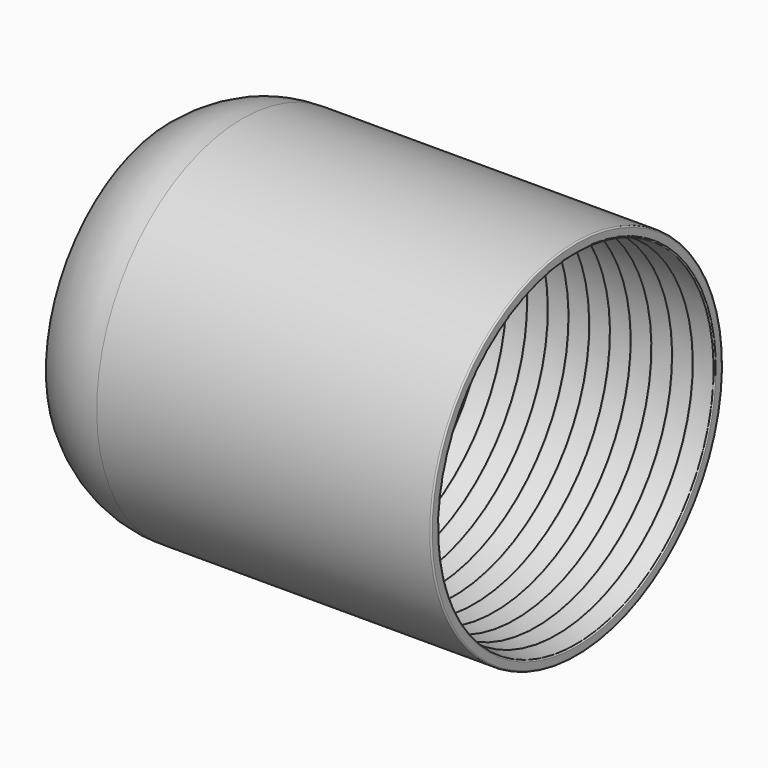
from build123d import *


with BuildPart() as f1:
    # F0 (on Front) → F1 (revolve)
    with BuildSketch(Plane.XZ):
        with BuildLine():
            ThreePointArc((0, 131), (-0.292893, 131.707107), (-1, 132))
            Line((-1, 132), (-242.180123, 132))
            Line((-242.180123, 132), (-242.180123, 123.010152))
            Line((-242.180123, 123.010152), (-179.286198, 123.000046))
            ThreePointArc((-179.286198, 123.000046), (-179.187331, 123.001008), (-179.088503, 123.003924))
            ThreePointArc((-179.088503, 123.003924), (-178.831014, 123.020735), (-178.574735, 123.050807))
            Line((-178.574735, 123.050807), (-165, 125))
            Line((-165, 125), (-165, 124))
            ThreePointArc((-165, 124), (-164.654931, 123.244311), (-163.857868, 123.010152))
            Line((-163.857868, 123.010152), (-150, 125))
            Line((-150, 125), (-150, 124))
            ThreePointArc((-150, 124), (-149.654931, 123.244311), (-148.857868, 123.010152))
            Line((-148.857868, 123.010152), (-135, 125))
            Line((-135, 125), (-135, 124))
            ThreePointArc((-135, 124), (-134.654931, 123.244311), (-133.857868, 123.010152))
            Line((-133.857868, 123.010152), (-120, 125))
            Line((-120, 125), (-120, 124))
            ThreePointArc((-120, 124), (-119.654931, 123.244311), (-118.857868, 123.010152))
            Line((-118.857868, 123.010152), (-105, 125))
            Line((-105, 125), (-105, 124))
            ThreePointArc((-105, 124), (-104.654931, 123.244311), (-103.857868, 123.010152))
            Line((-103.857868, 123.010152), (-90, 125))
            Line((-90, 125), (-90, 124))
            ThreePointArc((-90, 124), (-89.654931, 123.244311), (-88.857868, 123.010152))
            Line((-88.857868, 123.010152), (-75, 125))
            Line((-75, 125), (-75, 124))
            ThreePointArc((-75, 124), (-74.654931, 123.244311), (-73.857868, 123.010152))
            Line((-73.857868, 123.010152), (-60, 125))
            Line((-60, 125), (-60, 124))
            ThreePointArc((-60, 124), (-59.654931, 123.244311), (-58.857868, 123.010152))
            Line((-58.857868, 123.010152), (-45, 125))
            Line((-45, 125), (-45, 124))
            ThreePointArc((-45, 124), (-44.654931, 123.244311), (-43.857868, 123.010152))
            Line((-43.857868, 123.010152), (-30, 125))
            Line((-30, 125), (-30, 124))
            ThreePointArc((-30, 124), (-29.654931, 123.244311), (-28.857868, 123.010152))
            Line((-28.857868, 123.010152), (-15, 125))
            Line((-15, 125), (-15, 124))
            ThreePointArc((-15, 124), (-14.654931, 123.244311), (-13.857868, 123.010152))
            Line((-13.857868, 123.010152), (-0.857868, 124.876819))
            ThreePointArc((-0.857868, 124.876819), (-0.244311, 125.211736), (0, 125.866667))
            Line((0, 125.866667), (0, 131))
        make_face()
        with BuildLine():
            Line((-242.180123, 123.010152), (-242.180123, 132))
            ThreePointArc((-242.180123, 132), (-270.222925, 126.92397), (-294.707074, 112.340031))
            Line((-294.707074, 112.340031), (-282.109992, 112.340031))
            ThreePointArc((-282.109992, 112.340031), (-262.846025, 120.298261), (-242.180123, 123.010152))
        make_face()
    revolve(axis=Axis((-152.801096, 0, 0), (-1, 0, 0)))


solid = f1.part
